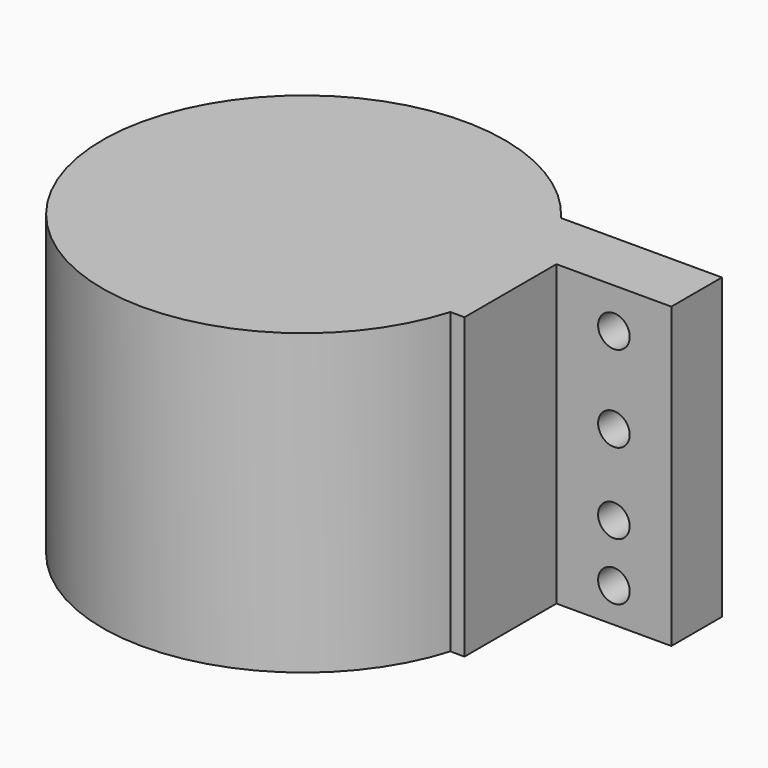
from build123d import *

# Parameters (mm, degrees)
CYLINDER001_R          = 2.75
CYLINDER001_DEPTH      = 15
CYLINDER001_ROLL_ANGLE = 90
CYLINDER002_R          = 2.75
CYLINDER002_DEPTH      = 15
CYLINDER002_ROLL_ANGLE = 90
CYLINDER003_R          = 2.75
CYLINDER003_DEPTH      = 15
CYLINDER003_ROLL_ANGLE = 90
CYLINDER_R             = 2.75
CYLINDER_DEPTH         = 15
CYLINDER_ROLL_ANGLE    = 90
BOX_W                  = 20
BOX_H                  = 11
BOX_DEPTH              = 52
BOX001_W               = 10
BOX001_H               = 31
BOX001_DEPTH           = 52
CYLINDER004_R          = 35
CYLINDER004_DEPTH      = 52


with BuildPart() as cylinder001:
    # Cylinder001 → Cylinder001 (new body)
    with BuildSketch(Plane.XY):
        Circle(CYLINDER001_R)
    extrude(amount=CYLINDER001_DEPTH)


with BuildPart() as cylinder001_1:
    # Cylinder001 roll: moved
    add(cylinder001.part.rotate(Axis((0, 0, 0), (1, 0, 0)), CYLINDER001_ROLL_ANGLE))


with BuildPart() as cylinder001_2:
    # Cylinder001 placement: moved
    add(cylinder001_1.part.moved(Location((46, 23, 6))))


with BuildPart() as cylinder002:
    # Cylinder002 → Cylinder002 (new body)
    with BuildSketch(Plane.XY):
        Circle(CYLINDER002_R)
    extrude(amount=CYLINDER002_DEPTH)


with BuildPart() as cylinder002_1:
    # Cylinder002 roll: moved
    add(cylinder002.part.rotate(Axis((0, 0, 0), (1, 0, 0)), CYLINDER002_ROLL_ANGLE))


with BuildPart() as cylinder002_2:
    # Cylinder002 placement: moved
    add(cylinder002_1.part.moved(Location((46, 23, 16))))


with BuildPart() as cylinder003:
    # Cylinder003 → Cylinder003 (new body)
    with BuildSketch(Plane.XY):
        Circle(CYLINDER003_R)
    extrude(amount=CYLINDER003_DEPTH)


with BuildPart() as cylinder003_1:
    # Cylinder003 roll: moved
    add(cylinder003.part.rotate(Axis((0, 0, 0), (1, 0, 0)), CYLINDER003_ROLL_ANGLE))


with BuildPart() as cylinder003_2:
    # Cylinder003 placement: moved
    add(cylinder003_1.part.moved(Location((46, 23, 45))))


with BuildPart() as negative_fusion:
    # Cylinder → Cylinder (new body)
    with BuildSketch(Plane.XY):
        Circle(CYLINDER_R)
    extrude(amount=CYLINDER_DEPTH)


with BuildPart() as negative_fusion_1:
    # Cylinder roll: moved
    add(negative_fusion.part.rotate(Axis((0, 0, 0), (1, 0, 0)), CYLINDER_ROLL_ANGLE))


with BuildPart() as negative_fusion_2:
    # Cylinder placement: moved
    add(negative_fusion_1.part.moved(Location((46, 23, 30))))

    # Fusion: union Cylinder001, Cylinder002, Cylinder003
    add(cylinder001_2.part)
    add(cylinder002_2.part)
    add(cylinder003_2.part)


with BuildPart() as cube:
    # Box → Box (new body)
    with BuildSketch(Plane(origin=(36, 10, 0), x_dir=(1, 0, 0), z_dir=(0, 0, 1))):
        with Locations((10, 5.5)):
            Rectangle(BOX_W, BOX_H)
    extrude(amount=BOX_DEPTH)


with BuildPart() as cube001:
    # Box001 → Box001 (new body)
    with BuildSketch(Plane(origin=(26, -10, 0), x_dir=(1, 0, 0), z_dir=(0, 0, 1))):
        with Locations((5, 15.5)):
            Rectangle(BOX001_W, BOX001_H)
    extrude(amount=BOX001_DEPTH)


with BuildPart() as cut:
    # Cylinder004 → Cylinder004 (new body)
    with BuildSketch(Plane.XY):
        Circle(CYLINDER004_R)
    extrude(amount=CYLINDER004_DEPTH)

    # Fusion001: union Cube, Cube001
    add(cube.part)
    add(cube001.part)

    # Cut: cut Negative Fusion
    add(negative_fusion_2.part, mode=Mode.SUBTRACT)


solid = cut.part
